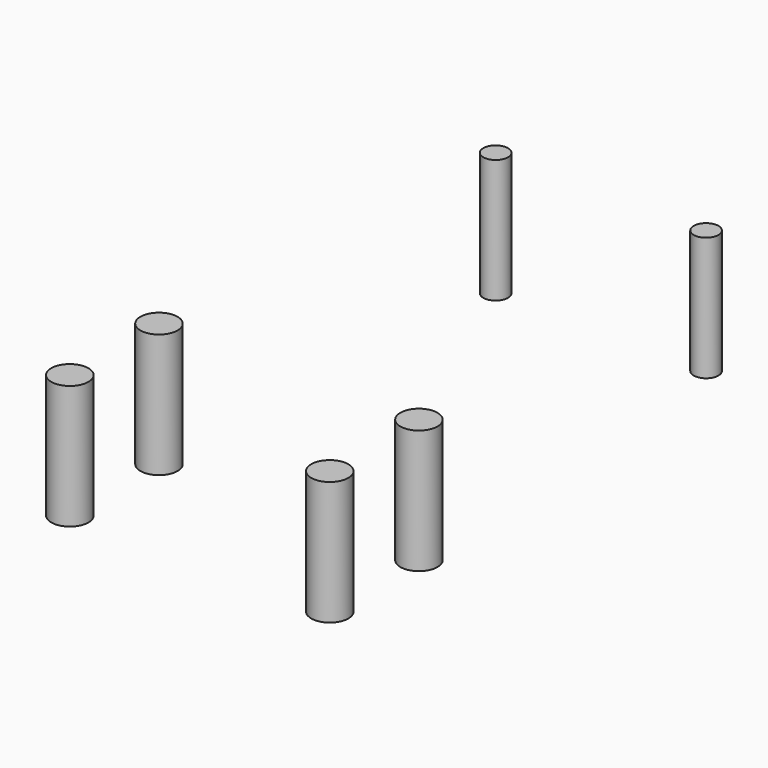
from build123d import *

# Parameters (mm, degrees)
CYLINDER035_R     = 1.5
CYLINDER035_DEPTH = 10
CYLINDER036_R     = 1.5
CYLINDER036_DEPTH = 10
CYLINDER037_R     = 1.5
CYLINDER037_DEPTH = 10
CYLINDER038_R     = 1
CYLINDER038_DEPTH = 10
CYLINDER039_R     = 1
CYLINDER039_DEPTH = 10
CYLINDER034_R     = 1.5
CYLINDER034_DEPTH = 10


with BuildPart() as taladro008:
    # Cylinder035 → Cylinder035 (new body)
    with BuildSketch(Plane(origin=(-10.5, -14, -1), x_dir=(1, 0, 0), z_dir=(0, 0, 1))):
        Circle(CYLINDER035_R)
    extrude(amount=CYLINDER035_DEPTH)


with BuildPart() as taladro009:
    # Cylinder036 → Cylinder036 (new body)
    with BuildSketch(Plane(origin=(10.5, -5, -1), x_dir=(1, 0, 0), z_dir=(0, 0, 1))):
        Circle(CYLINDER036_R)
    extrude(amount=CYLINDER036_DEPTH)


with BuildPart() as taladro010:
    # Cylinder037 → Cylinder037 (new body)
    with BuildSketch(Plane(origin=(10.5, -14, -1), x_dir=(1, 0, 0), z_dir=(0, 0, 1))):
        Circle(CYLINDER037_R)
    extrude(amount=CYLINDER037_DEPTH)


with BuildPart() as taladro011:
    # Cylinder038 → Cylinder038 (new body)
    with BuildSketch(Plane(origin=(-8.5, 26.5, -1), x_dir=(1, 0, 0), z_dir=(0, 0, 1))):
        Circle(CYLINDER038_R)
    extrude(amount=CYLINDER038_DEPTH)


with BuildPart() as taladro012:
    # Cylinder039 → Cylinder039 (new body)
    with BuildSketch(Plane(origin=(8.5, 26.5, -1), x_dir=(1, 0, 0), z_dir=(0, 0, 1))):
        Circle(CYLINDER039_R)
    extrude(amount=CYLINDER039_DEPTH)


with BuildPart() as taladros_b:
    # Cylinder034 → Cylinder034 (new body)
    with BuildSketch(Plane(origin=(-10.5, -5, -1), x_dir=(1, 0, 0), z_dir=(0, 0, 1))):
        Circle(CYLINDER034_R)
    extrude(amount=CYLINDER034_DEPTH)

    # Fusion015: union Taladro008, Taladro009, Taladro010, Taladro011, Taladro012
    add(taladro008.part)
    add(taladro009.part)
    add(taladro010.part)
    add(taladro011.part)
    add(taladro012.part)


solid = taladros_b.part
